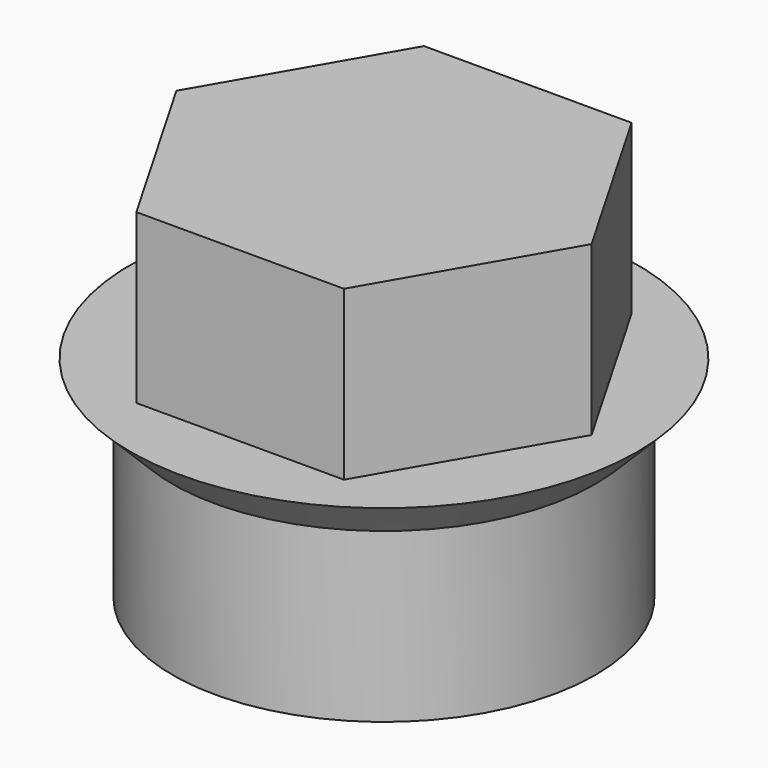
from build123d import *

# Parameters (mm, degrees)
SKETCH007_R  = 5.03
PAD005_DEPTH = 5
PAD006_DEPTH = 4


with BuildPart() as part:
    # Sketch007 → Pad005 (new body)
    with BuildSketch(Plane.XY):
        Circle(SKETCH007_R)
    extrude(amount=PAD005_DEPTH)

    # Sketch008 → Pad006 (join)
    with BuildSketch(Plane.XY.offset(5)):
        Polygon((2.47, -4.278165), (4.94, 0), (2.47, 4.278165), (-2.47, 4.278165), (-4.94, 0), (-2.47, -4.278165), align=None)
    extrude(amount=PAD006_DEPTH)

    # Sketch009 → Revolution001 (revolve)
    with BuildSketch(Plane.XZ):
        Polygon((5.03, 5), (6.03, 5), (5.03, 4), align=None)
    revolve(axis=Axis((0, 0, 0), (0, 0, 1)))


solid = part.part
